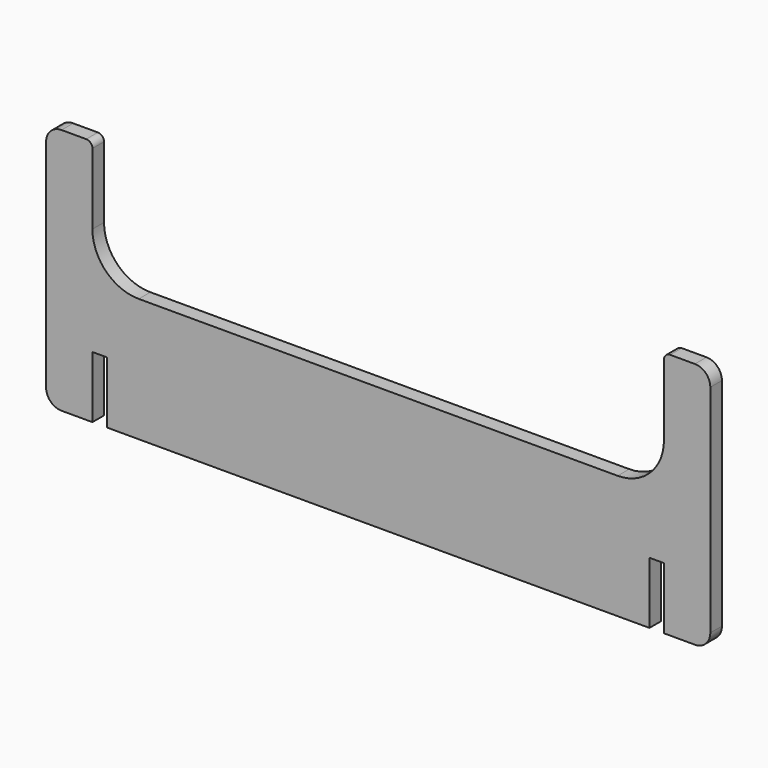
from build123d import *

# Parameters (mm, degrees)
F2_DEPTH = 4.7


with BuildPart() as f2:
    # F1 (on Front) → F2 (new body)
    with BuildSketch(Plane.XZ):
        with BuildLine():
            Line((-92.5, 15), (-92.5, 38))
            ThreePointArc((-92.5, 38), (-93.0857864376, 39.4142135624), (-94.5, 40))
            Line((-94.5, 40), (-102.5, 40))
            ThreePointArc((-102.5, 40), (-106.0355339059, 38.5355339059), (-107.5, 35))
            Line((-107.5, 35), (-107.5, -35))
            ThreePointArc((-107.5, -35), (-106.0355339059, -38.5355339059), (-102.5, -40))
            Line((-102.5, -40), (-92.5, -40))
            Line((-92.5, -40), (-92.5, -20))
            Line((-92.5, -20), (-87.8, -20))
            Line((-87.8, -20), (-87.8, -40))
            Line((-87.8, -40), (87.8, -40))
            Line((87.8, -40), (87.8, -20))
            Line((87.8, -20), (92.5, -20))
            Line((92.5, -20), (92.5, -40))
            Line((92.5, -40), (102.5, -40))
            ThreePointArc((102.5, -40), (106.0355339059, -38.5355339059), (107.5, -35))
            Line((107.5, -35), (107.5, 35))
            ThreePointArc((107.5, 35), (106.0355339059, 38.5355339059), (102.5, 40))
            Line((102.5, 40), (94.5, 40))
            ThreePointArc((94.5, 40), (93.0857864376, 39.4142135624), (92.5, 38))
            Line((92.5, 38), (92.5, 15))
            ThreePointArc((92.5, 15), (88.1066017178, 4.3933982822), (77.5, 0))
            Line((77.5, 0), (-77.5, 0))
            ThreePointArc((-77.5, 0), (-88.1066017178, 4.3933982822), (-92.5, 15))
        make_face()
    extrude(amount=F2_DEPTH)


solid = f2.part
